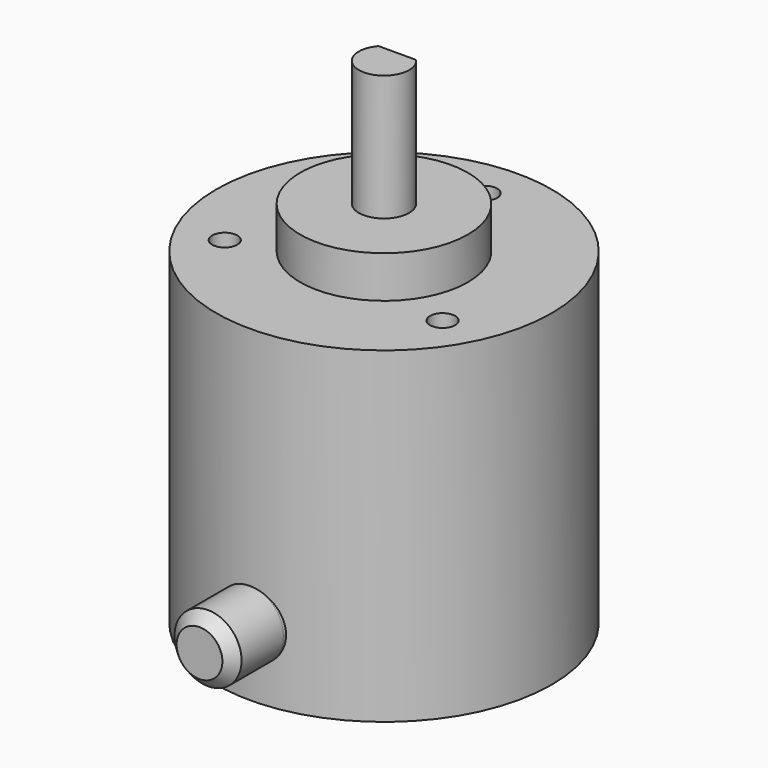
from build123d import *

# Parameters (mm, degrees)
F0_R          = 20
F0_R_2        = 10
F1_DEPTH      = 39
F2_DEPTH      = 44
F3_DEPTH      = 59
F4_DEPTH      = 49
F6_R          = 4
F7_DEPTH      = 7.5
F7_DEPTH_BACK = 25.4
F8_SIZE       = 1.27
F10_D         = 3
F10_DEPTH     = 7.112
F10_TIP       = 0.9012909285


with BuildPart() as f1:
    # F0 (on Top) → F1 (new body)
    with BuildSketch(Plane.XY):
        Circle(F0_R)
        Circle(F0_R_2, mode=Mode.SUBTRACT)
    extrude(amount=F1_DEPTH)

    # F0 (on Top) → F2 (join)
    with BuildSketch(Plane.XY):
        Circle(F0_R_2)
        with BuildLine():
            ThreePointArc((2.2360679775, 2), (2.8025170769, 1.0704662693), (3, 0))
            ThreePointArc((3, 0), (-1.0704662693, -2.8025170769), (-2.2360679775, 2))
            ThreePointArc((-2.2360679775, 2), (0, 3), (2.2360679775, 2))
        make_face(mode=Mode.SUBTRACT)
    extrude(amount=F2_DEPTH)

    # F0 (on Top) → F3 (join)
    with BuildSketch(Plane.XY):
        with BuildLine():
            ThreePointArc((-2.2360679775, 2), (-1.0704662693, -2.8025170769), (3, 0))
            ThreePointArc((3, 0), (2.8025170769, 1.0704662693), (2.2360679775, 2))
            Line((2.2360679775, 2), (-2.2360679775, 2))
        make_face()
    extrude(amount=F3_DEPTH)

    # F0 (on Top) → F4 (join)
    with BuildSketch(Plane.XY):
        with BuildLine():
            Line((-2.2360679775, 2), (2.2360679775, 2))
            ThreePointArc((2.2360679775, 2), (0, 3), (-2.2360679775, 2))
        make_face()
    extrude(amount=F4_DEPTH)

    # F6 (on offset) → F7 (join, two sides)
    with BuildSketch(Plane.XZ.offset(20)) as f7_sk:
        with Locations((0, 8)):
            Circle(F6_R)
    extrude(amount=F7_DEPTH)
    extrude(f7_sk.sketch, amount=-F7_DEPTH_BACK)

    # F8
    f8_edges = [f1.edges().sort_by_distance(p)[0] for p in [
        (-4, -27.5, 8),
    ]]
    chamfer(f8_edges, length=F8_SIZE)

    # F10
    with Locations(Plane.XY.offset(39)):
        with Locations((0, 15), (-12.9903810568, -7.5), (12.9903810568, -7.5)):
            Hole(F10_D / 2, depth=F10_DEPTH)
            with Locations((0, 0, -(F10_DEPTH + F10_TIP / 2))):  # 118° drill point
                Cone(0, F10_D / 2, F10_TIP, mode=Mode.SUBTRACT)


solid = f1.part
